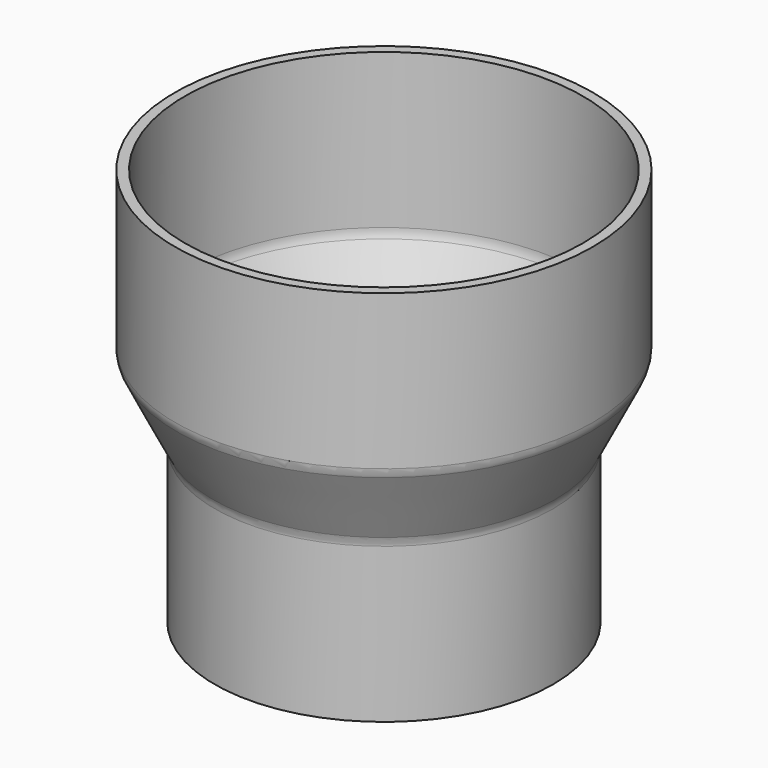
from build123d import *


with BuildPart() as f2:
    # F1 (on Front) → F2 (revolve)
    with BuildSketch(Plane.XZ):
        with BuildLine():
            Line((8, 7.7639320225), (8, 0))
            Line((8, 0), (8.5, 0))
            Line((8.5, 0), (8.5, 7.7639320225))
            ThreePointArc((8.5, 7.7639320225), (8.5267510105, 7.993684943), (8.605572809, 8.211145618))
            Line((8.605572809, 8.211145618), (10.394427191, 11.788854382))
            ThreePointArc((10.394427191, 11.788854382), (10.4732489895, 12.006315057), (10.5, 12.2360679775))
            Line((10.5, 12.2360679775), (10.5, 20))
            Line((10.5, 20), (10, 20))
            Line((10, 20), (10, 12.2360679775))
            ThreePointArc((10, 12.2360679775), (9.9732489895, 12.006315057), (9.894427191, 11.788854382))
            Line((9.894427191, 11.788854382), (8.105572809, 8.211145618))
            ThreePointArc((8.105572809, 8.211145618), (8.0267510105, 7.993684943), (8, 7.7639320225))
        make_face()
    revolve(axis=Axis((0, 0, 0), (0, 0, 1)))


solid = f2.part
